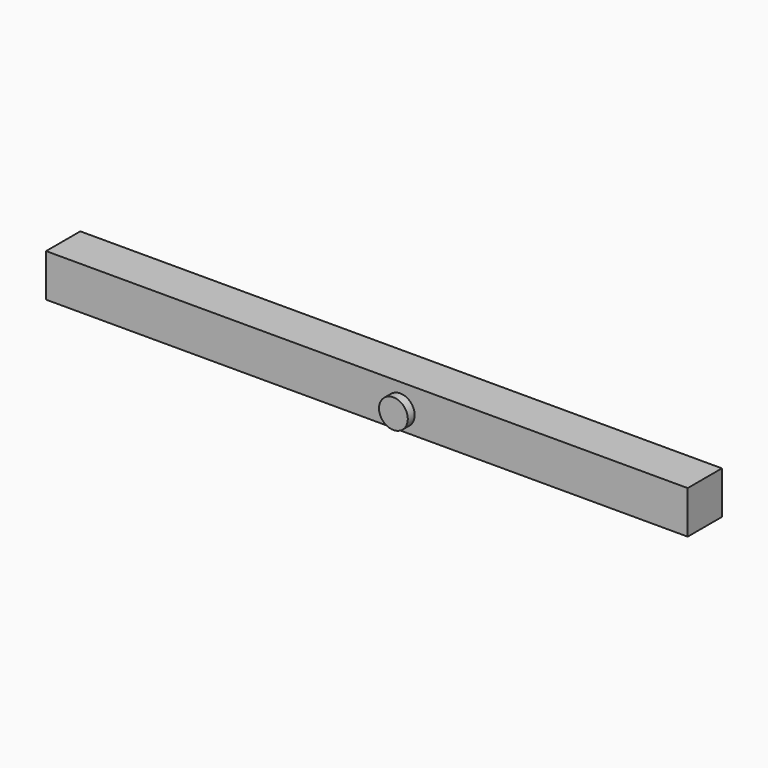
from build123d import *

# Parameters (mm, degrees)
F0_W     = 150
F0_H     = 10
F1_DEPTH = 10
F3_R     = 3.365379
F4_DEPTH = 2
F2_R     = 2.92998
F5_DEPTH = 2


with BuildPart() as f1:
    # F0 (on Front) → F1 (new body)
    with BuildSketch(Plane.XZ):
        with Locations((-0.948794, 5.625204)):
            Rectangle(F0_W, F0_H)
    extrude(amount=F1_DEPTH)

    # F3 (on face) → F4 (join)
    with BuildSketch(Plane.XZ.offset(10)):
        with Locations((6.850945, 4.902036)):
            Circle(F3_R)
    extrude(amount=F4_DEPTH)

    # F2 (on face) → F5 (join)
    with BuildSketch(Plane(origin=(0, 0, 0), x_dir=(-1, 0, 0), z_dir=(0, 1, 0))):
        with Locations((-66.123568, 4.694908)):
            Circle(F2_R)
    extrude(amount=F5_DEPTH)


solid = f1.part
